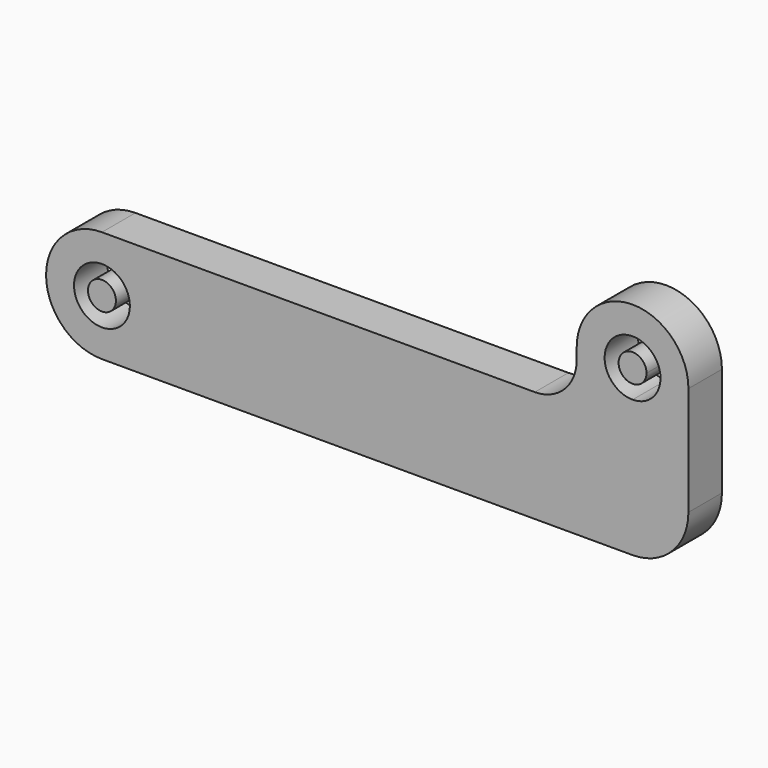
from build123d import *

# Parameters (mm, degrees)
F0_R     = 50.8
F1_DEPTH = 76.2
F0_R_2   = 25.4


with BuildPart() as f1:
    # F0 (on Front) → F1 (new body)
    with BuildSketch(Plane.XZ):
        with BuildLine():
            Line((787.4, 101.6), (0, 101.6))
            ThreePointArc((0, 101.6), (-101.6, 0), (0, -101.6))
            Line((0, -101.6), (965.2, -101.6))
            ThreePointArc((965.2, -101.6), (1037.0420489686, -71.8420489686), (1066.8, 0))
            Line((1066.8, 0), (1066.8, 198.12))
            ThreePointArc((1066.8, 198.12), (965.2, 299.72), (863.6, 198.12))
            Line((863.6, 198.12), (863.6, 177.8))
            ThreePointArc((863.6, 177.8), (841.2815367264, 123.9184632736), (787.4, 101.6))
        make_face()
        Circle(F0_R, mode=Mode.SUBTRACT)
        with BuildLine():
            ThreePointArc((965.2, 50.8), (1001.1210244843, 35.9210244843), (1016, 0))
            ThreePointArc((1016, 0), (929.2789755157, -35.9210244843), (965.2, 50.8))
        make_face(mode=Mode.SUBTRACT)
        with BuildLine():
            ThreePointArc((1016, 198.12), (1001.1210244843, 162.1989755157), (965.2, 147.32))
            ThreePointArc((965.2, 147.32), (929.2789755157, 234.0410244843), (1016, 198.12))
        make_face(mode=Mode.SUBTRACT)
        with BuildLine():
            ThreePointArc((965.2, 50.8), (929.2789755157, -35.9210244843), (1016, 0))
            ThreePointArc((1016, 0), (1001.1210244843, 35.9210244843), (965.2, 50.8))
        make_face()
        with BuildLine():
            ThreePointArc((990.6, 0), (947.2394877579, -17.9605122421), (965.2, 25.4))
            ThreePointArc((965.2, 25.4), (983.1605122421, 17.9605122421), (990.6, 0))
        make_face(mode=Mode.SUBTRACT)
        with BuildLine():
            ThreePointArc((990.6, 0), (983.1605122421, 17.9605122421), (965.2, 25.4))
            ThreePointArc((965.2, 25.4), (947.2394877579, -17.9605122421), (990.6, 0))
        make_face()
    extrude(amount=F1_DEPTH)


with BuildPart() as f1b:
    # F0 (on Front) → F1, piece 2 (new body)
    with BuildSketch(Plane.XZ):
        Circle(F0_R_2)
    extrude(amount=F1_DEPTH)


with BuildPart() as f1c:
    # F0 (on Front) → F1, piece 3 (new body)
    with BuildSketch(Plane.XZ):
        with BuildLine():
            ThreePointArc((990.6, 198.12), (947.2394877579, 216.0805122421), (965.2, 172.72))
            ThreePointArc((965.2, 172.72), (983.1605122421, 180.1594877579), (990.6, 198.12))
        make_face()
    extrude(amount=F1_DEPTH)


solid = Compound([f1.part, f1b.part, f1c.part])
